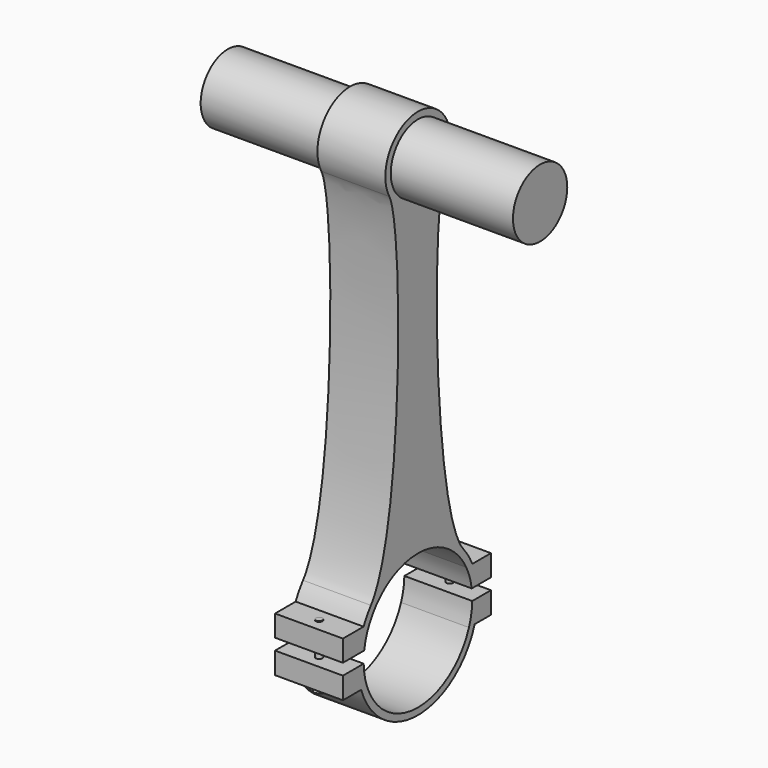
from build123d import *

# Parameters (mm, degrees)
F0_R          = 6.35
F1_DEPTH      = 12.7
F2_R          = 0.635
F3_DEPTH      = 25.4
F4_R          = 0.6386303574
F5_DEPTH      = 10.287
F5_DEPTH_BACK = 1.27
F4_R_2        = 0.6085565118
F4_R_3        = 0.635
F6_DEPTH      = 1.27
F7_DEPTH      = 35.56
F7_DEPTH_BACK = 22.86
F8_SCALE      = 1.5


with BuildPart() as f1:
    # F0 (on Right) → F1 (new body)
    with BuildSketch(Plane.YZ):
        with BuildLine():
            ThreePointArc((-8.8909002823, 73.1756296325), (-15.5929970665, 69.5036496954), (-22.1107471818, 73.4936962363))
            add(Edge.make_bspline(
                [(-22.1107471818, 73.4936962363), (-18.7402204709, 67.2677941927), (-18.9419702558, 17.4447342641), (-26.4047460014, 7.8968935456)],
                knots=[0, 0, 0, 0, 65.7371960849, 65.7371960849, 65.7371960849, 65.7371960849], degree=3))
            ThreePointArc((-26.4047460014, 7.8968935456), (-15.6951186724, 13.2606633429), (-4.7670870171, 8.3571678442))
            add(Edge.make_bspline(
                [(-8.8909002823, 73.1756296325), (-12.4982018024, 67.2160685062), (-11.6932281633, 16.4812461631), (-4.7670870171, 8.3571678442)],
                knots=[0, 0, 0, 0, 64.9495098091, 64.9495098091, 64.9495098091, 64.9495098091], degree=3))
        make_face()
        with BuildLine():
            ThreePointArc((-4.7670870171, 8.3571678442), (-15.6951186724, 13.2606633429), (-26.4047460014, 7.8968935456))
            ThreePointArc((-26.4047460014, 7.8968935456), (-27.3424055458, 6.538993057), (-28.1134038711, 5.08))
            Line((-28.1134038711, 5.08), (-26.7033326687, 5.08))
            ThreePointArc((-26.7033326687, 5.08), (-15.3980173236, 11.9938229419), (-4.0927019785, 5.08))
            Line((-4.0927019785, 5.08), (-2.6826307761, 5.08))
            ThreePointArc((-2.6826307761, 5.08), (-3.6104143047, 6.7913768809), (-4.7670870171, 8.3571678442))
        make_face()
        with BuildLine():
            ThreePointArc((-29.251858641, 1.0915939929), (-28.8314760351, 3.1282834054), (-28.1134038711, 5.08))
            Line((-28.1134038711, 5.08), (-32.9461619258, 5.08))
            Line((-32.9461619258, 5.08), (-32.9461619258, 1.0915939929))
            Line((-32.9461619258, 1.0915939929), (-29.251858641, 1.0915939929))
        make_face()
        with BuildLine():
            Line((-26.7033326687, 5.08), (-28.1134038711, 5.08))
            ThreePointArc((-28.1134038711, 5.08), (-28.8314760351, 3.1282834054), (-29.251858641, 1.0915939929))
            Line((-29.251858641, 1.0915939929), (-27.9701300835, 1.0915939929))
            ThreePointArc((-27.9701300835, 1.0915939929), (-27.5021380619, 3.1383334638), (-26.7033326687, 5.08))
        make_face()
        with BuildLine():
            ThreePointArc((-1.5441760062, 1.0915939929), (-1.9645586121, 3.1282834054), (-2.6826307761, 5.08))
            Line((-2.6826307761, 5.08), (-4.0927019785, 5.08))
            ThreePointArc((-4.0927019785, 5.08), (-3.2938965853, 3.1383334638), (-2.8259045637, 1.0915939929))
            Line((-2.8259045637, 1.0915939929), (-1.5441760062, 1.0915939929))
        make_face()
        with BuildLine():
            Line((1.6718520783, 5.08), (-2.6826307761, 5.08))
            ThreePointArc((-2.6826307761, 5.08), (-1.9645586121, 3.1282834054), (-1.5441760062, 1.0915939929))
            Line((-1.5441760062, 1.0915939929), (1.6718520783, 1.0915939929))
            Line((1.6718520783, 1.0915939929), (1.6718520783, 5.08))
        make_face()
        with BuildLine():
            ThreePointArc((-8.8909002823, 73.1756296325), (-8.0701721961, 75.0731489028), (-7.7897145863, 77.1214451464))
            ThreePointArc((-7.7897145863, 77.1214451464), (-17.2808815514, 84.5081314257), (-22.1107471818, 73.4936962363))
            ThreePointArc((-22.1107471818, 73.4936962363), (-15.5929970665, 69.5036496954), (-8.8909002823, 73.1756296325))
        make_face()
        with Locations((-15.4097145863, 77.1214451464)):
            Circle(F0_R, mode=Mode.SUBTRACT)
    extrude(amount=F1_DEPTH)


with BuildPart() as f1b:
    # F0 (on Right) → F1, piece 2 (new body)
    with BuildSketch(Plane.YZ):
        with BuildLine():
            ThreePointArc((-1.4317218373, -1.0278762784), (-1.6311406987, -3.0797835955), (-2.1303659537, -5.08))
            Line((-2.1303659537, -5.08), (1.6718520783, -5.08))
            Line((1.6718520783, -5.08), (1.6718520783, -1.0278762784))
            Line((1.6718520783, -1.0278762784), (-1.4317218373, -1.0278762784))
        make_face()
        with BuildLine():
            Line((-3.4749441932, -5.08), (-2.1303659537, -5.08))
            ThreePointArc((-2.1303659537, -5.08), (-1.6311406987, -3.0797835955), (-1.4317218373, -1.0278762784))
            Line((-1.4317218373, -1.0278762784), (-2.7020924021, -1.0278762784))
            ThreePointArc((-2.7020924021, -1.0278762784), (-2.9228943609, -3.0855271935), (-3.4749441932, -5.08))
        make_face()
        with BuildLine():
            Line((-27.321090454, -5.08), (-28.6656686935, -5.08))
            ThreePointArc((-28.6656686935, -5.08), (-15.3980173236, -14.6761770581), (-2.1303659537, -5.08))
            Line((-2.1303659537, -5.08), (-3.4749441932, -5.08))
            ThreePointArc((-3.4749441932, -5.08), (-15.3980173236, -13.4061770581), (-27.321090454, -5.08))
        make_face()
        with BuildLine():
            Line((-28.0939422451, -1.0278762784), (-29.3643128099, -1.0278762784))
            ThreePointArc((-29.3643128099, -1.0278762784), (-29.1648939485, -3.0797835955), (-28.6656686935, -5.08))
            Line((-28.6656686935, -5.08), (-27.321090454, -5.08))
            ThreePointArc((-27.321090454, -5.08), (-27.8731402863, -3.0855271935), (-28.0939422451, -1.0278762784))
        make_face()
        with BuildLine():
            ThreePointArc((-28.6656686935, -5.08), (-29.1648939485, -3.0797835955), (-29.3643128099, -1.0278762784))
            Line((-29.3643128099, -1.0278762784), (-32.9461619258, -1.0278762784))
            Line((-32.9461619258, -1.0278762784), (-32.9461619258, -5.08))
            Line((-32.9461619258, -5.08), (-28.6656686935, -5.08))
        make_face()
    extrude(amount=F1_DEPTH)


with BuildPart() as f3_tool:
    # F2 (on face) → F3 (new body)
    with BuildSketch(Plane.XY.offset(5.08)):
        with Locations((6.3113425858, -30.515100807)):
            Circle(F2_R)
        with Locations((6.3113425858, 0)):
            Circle(F2_R)
    extrude(amount=-F3_DEPTH)


with BuildPart() as f1_1:
    add(f1.part)

    # F3: cut by f3_tool
    add(f3_tool.part, mode=Mode.SUBTRACT)

    # F0 (on Right) → F7 (join, two sides)
    with BuildSketch(Plane.YZ) as f7_sk:
        with Locations((-15.4097145863, 77.1214451464)):
            Circle(F0_R)
    extrude(amount=F7_DEPTH)
    extrude(f7_sk.sketch, amount=-F7_DEPTH_BACK)


with BuildPart() as f1b_1:
    add(f1b.part)

    # F3: cut by f3_tool
    add(f3_tool.part, mode=Mode.SUBTRACT)

    # F4 (on face) → F6 (join)
    with BuildSketch(Plane(origin=(0, 0, -5.08), x_dir=(1, 0, 0), z_dir=(0, 0, -1))):
        Polygon((6.7857506938, 0.8251219406), (5.8329819448, 0.8251219406), (5.3565975703, 0), (5.8329819448, -0.8251219406), (6.7857506938, -0.8251219406), (7.2621350683, 0), align=None)
        with Locations((6.3093663193, 0)):
            Circle(F4_R, mode=Mode.SUBTRACT)
        Polygon((5.047511775, 31.2447738658), (5.047511775, 29.7854277481), (6.3113425858, 29.0557546893), (7.5751733966, 29.7854277481), (7.5751733966, 31.2447738658), (6.3113425858, 31.9744469246), align=None)
        with Locations((6.3113425858, 30.515100807)):
            Circle(F4_R_3, mode=Mode.SUBTRACT)
    extrude(amount=F6_DEPTH)


with BuildPart() as f5:
    # F4 (on face) → F5 (new body, two sides)
    with BuildSketch(Plane(origin=(0, 0, -5.08), x_dir=(1, 0, 0), z_dir=(0, 0, -1))) as f5_sk:
        with Locations((6.3093663193, 0)):
            Circle(F4_R)
    extrude(amount=-F5_DEPTH)
    extrude(f5_sk.sketch, amount=F5_DEPTH_BACK)


with BuildPart() as f5b:
    # F4 (on face) → F5, piece 2 (new body, two sides)
    with BuildSketch(Plane(origin=(0, 0, -5.08), x_dir=(1, 0, 0), z_dir=(0, 0, -1))) as f5_2_sk:
        with Locations((6.3113425858, 30.515100807)):
            Circle(F4_R_2)
    extrude(amount=-F5_DEPTH)
    extrude(f5_2_sk.sketch, amount=F5_DEPTH_BACK)


with BuildPart() as f1b_2:
    # F8: moved
    add(f1b_1.part.scale(F8_SCALE).moved(Location((0, 4.4454501412, -36.5878148162))))


with BuildPart() as f1_2:
    # F8: moved
    add(f1_1.part.scale(F8_SCALE).moved(Location((0, 4.4454501412, -36.5878148162))))


with BuildPart() as f5b_1:
    # F8: moved
    add(f5b.part.scale(F8_SCALE).moved(Location((0, 4.4454501412, -36.5878148162))))


with BuildPart() as f5_1:
    # F8: moved
    add(f5.part.scale(F8_SCALE).moved(Location((0, 4.4454501412, -36.5878148162))))


solid = Compound([f1b_2.part, f1_2.part, f5b_1.part, f5_1.part])
